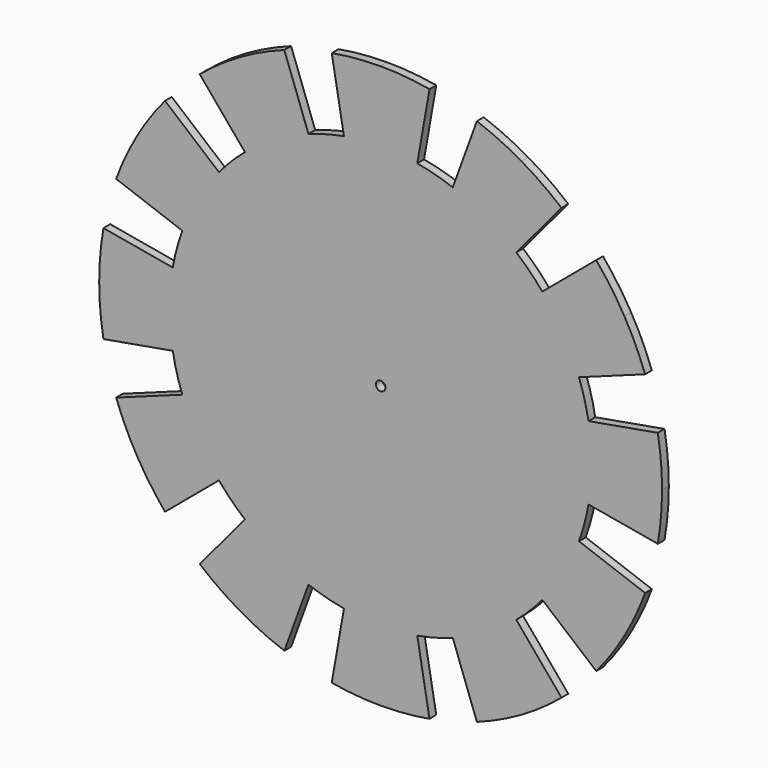
from build123d import *

# Parameters (mm, degrees)
F1_DEPTH = 3
F2_R     = 1.7
F3_DEPTH = 3.001


with BuildPart() as f1:
    # F0 (on Front) → F1 (new body)
    with BuildSketch(Plane.XZ):
        with BuildLine():
            Line((0, 0), (75, 0))
            ThreePointArc((75, 0), (74.7146023569, 6.5366807061), (73.8605814759, 13.023613325))
            Line((73.8605814759, 13.023613325), (0, 0))
        make_face()
        with BuildLine():
            Line((100, 0), (75, 0))
            ThreePointArc((75, 0), (74.7146023569, -6.5366807061), (73.8605814759, -13.023613325))
            Line((73.8605814759, -13.023613325), (98.4807753012, -17.3648177667))
            ThreePointArc((98.4807753012, -17.3648177667), (99.6194698092, -8.7155742748), (100, 0))
        make_face()
        with BuildLine():
            ThreePointArc((73.8605814759, -13.023613325), (74.7146023569, -6.5366807061), (75, 0))
            Line((75, 0), (0, 0))
            Line((0, 0), (73.8605814759, -13.023613325))
        make_face()
        with BuildLine():
            ThreePointArc((73.8605814759, 13.023613325), (74.7146023569, 6.5366807061), (75, 0))
            Line((75, 0), (100, 0))
            ThreePointArc((100, 0), (99.6194698092, 8.7155742748), (98.4807753012, 17.3648177667))
            Line((98.4807753012, 17.3648177667), (73.8605814759, 13.023613325))
        make_face()
        with BuildLine():
            Line((0, 0), (73.8605814759, 13.023613325))
            ThreePointArc((73.8605814759, 13.023613325), (72.4444369717, 19.4114283827), (70.4769465589, 25.6515107494))
            Line((70.4769465589, 25.6515107494), (0, 0))
        make_face()
        with BuildLine():
            ThreePointArc((70.4769465589, -25.6515107494), (72.4444369717, -19.4114283827), (73.8605814759, -13.023613325))
            Line((73.8605814759, -13.023613325), (0, 0))
            Line((0, 0), (70.4769465589, -25.6515107494))
        make_face()
        with BuildLine():
            Line((-13.023613325, 73.8605814759), (0, 0))
            Line((0, 0), (0, 75))
            ThreePointArc((0, 75), (-6.5366807061, 74.7146023569), (-13.023613325, 73.8605814759))
        make_face()
        with BuildLine():
            Line((13.023613325, -73.8605814759), (0, 0))
            Line((0, 0), (0, -75))
            ThreePointArc((0, -75), (6.5366807061, -74.7146023569), (13.023613325, -73.8605814759))
        make_face()
        with BuildLine():
            Line((-73.8605814759, -13.023613325), (0, 0))
            Line((0, 0), (-75, 0))
            ThreePointArc((-75, 0), (-74.7146023569, -6.5366807061), (-73.8605814759, -13.023613325))
        make_face()
        with BuildLine():
            Line((25.6515107494, 70.4769465589), (0, 0))
            Line((0, 0), (37.5, 64.9519052838))
            ThreePointArc((37.5, 64.9519052838), (31.6963696306, 67.9730840277), (25.6515107494, 70.4769465589))
        make_face()
        with BuildLine():
            Line((57.4533332339, 48.2090707265), (0, 0))
            Line((0, 0), (64.9519052838, 37.5))
            ThreePointArc((64.9519052838, 37.5), (61.4364033217, 43.0182327263), (57.4533332339, 48.2090707265))
        make_face()
        with BuildLine():
            Line((70.4769465589, -25.6515107494), (0, 0))
            Line((0, 0), (64.9519052838, -37.5))
            ThreePointArc((64.9519052838, -37.5), (67.9730840277, -31.6963696306), (70.4769465589, -25.6515107494))
        make_face()
        with BuildLine():
            Line((48.2090707265, -57.4533332339), (0, 0))
            Line((0, 0), (37.5, -64.9519052838))
            ThreePointArc((37.5, -64.9519052838), (43.0182327263, -61.4364033217), (48.2090707265, -57.4533332339))
        make_face()
        with BuildLine():
            Line((-48.2090707265, 57.4533332339), (0, 0))
            Line((0, 0), (-37.5, 64.9519052838))
            ThreePointArc((-37.5, 64.9519052838), (-43.0182327263, 61.4364033217), (-48.2090707265, 57.4533332339))
        make_face()
        with BuildLine():
            Line((-70.4769465589, 25.6515107494), (0, 0))
            Line((0, 0), (-64.9519052838, 37.5))
            ThreePointArc((-64.9519052838, 37.5), (-67.9730840277, 31.6963696306), (-70.4769465589, 25.6515107494))
        make_face()
        with BuildLine():
            Line((-57.4533332339, -48.2090707265), (0, 0))
            Line((0, 0), (-64.9519052838, -37.5))
            ThreePointArc((-64.9519052838, -37.5), (-61.4364033217, -43.0182327263), (-57.4533332339, -48.2090707265))
        make_face()
        with BuildLine():
            Line((-25.6515107494, -70.4769465589), (0, 0))
            Line((0, 0), (-37.5, -64.9519052838))
            ThreePointArc((-37.5, -64.9519052838), (-31.6963696306, -67.9730840277), (-25.6515107494, -70.4769465589))
        make_face()
        with BuildLine():
            Line((-25.6515107494, 70.4769465589), (0, 0))
            Line((0, 0), (-13.023613325, 73.8605814759))
            ThreePointArc((-13.023613325, 73.8605814759), (-19.4114283827, 72.4444369717), (-25.6515107494, 70.4769465589))
        make_face()
        with BuildLine():
            Line((0, 75), (0, 0))
            Line((0, 0), (13.023613325, 73.8605814759))
            ThreePointArc((13.023613325, 73.8605814759), (6.5366807061, 74.7146023569), (0, 75))
        make_face()
        with BuildLine():
            Line((13.023613325, 73.8605814759), (0, 0))
            Line((0, 0), (25.6515107494, 70.4769465589))
            ThreePointArc((25.6515107494, 70.4769465589), (19.4114283827, 72.4444369717), (13.023613325, 73.8605814759))
        make_face()
        with BuildLine():
            Line((37.5, 64.9519052838), (0, 0))
            Line((0, 0), (48.2090707265, 57.4533332339))
            ThreePointArc((48.2090707265, 57.4533332339), (43.0182327263, 61.4364033217), (37.5, 64.9519052838))
        make_face()
        with BuildLine():
            Line((48.2090707265, 57.4533332339), (0, 0))
            Line((0, 0), (57.4533332339, 48.2090707265))
            ThreePointArc((57.4533332339, 48.2090707265), (53.033008589, 53.033008589), (48.2090707265, 57.4533332339))
        make_face()
        with BuildLine():
            Line((64.9519052838, 37.5), (0, 0))
            Line((0, 0), (70.4769465589, 25.6515107494))
            ThreePointArc((70.4769465589, 25.6515107494), (67.9730840277, 31.6963696306), (64.9519052838, 37.5))
        make_face()
        with BuildLine():
            Line((64.9519052838, -37.5), (0, 0))
            Line((0, 0), (57.4533332339, -48.2090707265))
            ThreePointArc((57.4533332339, -48.2090707265), (61.4364033217, -43.0182327263), (64.9519052838, -37.5))
        make_face()
        with BuildLine():
            Line((57.4533332339, -48.2090707265), (0, 0))
            Line((0, 0), (48.2090707265, -57.4533332339))
            ThreePointArc((48.2090707265, -57.4533332339), (53.033008589, -53.033008589), (57.4533332339, -48.2090707265))
        make_face()
        with BuildLine():
            Line((37.5, -64.9519052838), (0, 0))
            Line((0, 0), (25.6515107494, -70.4769465589))
            ThreePointArc((25.6515107494, -70.4769465589), (31.6963696306, -67.9730840277), (37.5, -64.9519052838))
        make_face()
        with BuildLine():
            Line((25.6515107494, -70.4769465589), (0, 0))
            Line((0, 0), (13.023613325, -73.8605814759))
            ThreePointArc((13.023613325, -73.8605814759), (19.4114283827, -72.4444369717), (25.6515107494, -70.4769465589))
        make_face()
        with BuildLine():
            Line((0, -75), (0, 0))
            Line((0, 0), (-13.023613325, -73.8605814759))
            ThreePointArc((-13.023613325, -73.8605814759), (-6.5366807061, -74.7146023569), (0, -75))
        make_face()
        with BuildLine():
            Line((-13.023613325, -73.8605814759), (0, 0))
            Line((0, 0), (-25.6515107494, -70.4769465589))
            ThreePointArc((-25.6515107494, -70.4769465589), (-19.4114283827, -72.4444369717), (-13.023613325, -73.8605814759))
        make_face()
        with BuildLine():
            Line((-37.5, -64.9519052838), (0, 0))
            Line((0, 0), (-48.2090707265, -57.4533332339))
            ThreePointArc((-48.2090707265, -57.4533332339), (-43.0182327263, -61.4364033217), (-37.5, -64.9519052838))
        make_face()
        with BuildLine():
            Line((-48.2090707265, -57.4533332339), (0, 0))
            Line((0, 0), (-57.4533332339, -48.2090707265))
            ThreePointArc((-57.4533332339, -48.2090707265), (-53.033008589, -53.033008589), (-48.2090707265, -57.4533332339))
        make_face()
        with BuildLine():
            Line((-64.9519052838, -37.5), (0, 0))
            Line((0, 0), (-70.4769465589, -25.6515107494))
            ThreePointArc((-70.4769465589, -25.6515107494), (-67.9730840277, -31.6963696306), (-64.9519052838, -37.5))
        make_face()
        with BuildLine():
            Line((-70.4769465589, -25.6515107494), (0, 0))
            Line((0, 0), (-73.8605814759, -13.023613325))
            ThreePointArc((-73.8605814759, -13.023613325), (-72.4444369717, -19.4114283827), (-70.4769465589, -25.6515107494))
        make_face()
        with BuildLine():
            Line((-73.8605814759, 13.023613325), (0, 0))
            Line((0, 0), (-70.4769465589, 25.6515107494))
            ThreePointArc((-70.4769465589, 25.6515107494), (-72.4444369717, 19.4114283827), (-73.8605814759, 13.023613325))
        make_face()
        with BuildLine():
            Line((-64.9519052838, 37.5), (0, 0))
            Line((0, 0), (-57.4533332339, 48.2090707265))
            ThreePointArc((-57.4533332339, 48.2090707265), (-61.4364033217, 43.0182327263), (-64.9519052838, 37.5))
        make_face()
        with BuildLine():
            Line((-57.4533332339, 48.2090707265), (0, 0))
            Line((0, 0), (-48.2090707265, 57.4533332339))
            ThreePointArc((-48.2090707265, 57.4533332339), (-53.033008589, 53.033008589), (-57.4533332339, 48.2090707265))
        make_face()
        with BuildLine():
            Line((-37.5, 64.9519052838), (0, 0))
            Line((0, 0), (-25.6515107494, 70.4769465589))
            ThreePointArc((-25.6515107494, 70.4769465589), (-31.6963696306, 67.9730840277), (-37.5, 64.9519052838))
        make_face()
        with BuildLine():
            Line((-75, 0), (0, 0))
            Line((0, 0), (-73.8605814759, 13.023613325))
            ThreePointArc((-73.8605814759, 13.023613325), (-74.7146023569, 6.5366807061), (-75, 0))
        make_face()
        with BuildLine():
            ThreePointArc((64.9519052838, 37.5), (67.9730840277, 31.6963696306), (70.4769465589, 25.6515107494))
            Line((70.4769465589, 25.6515107494), (93.9692620786, 34.2020143326))
            ThreePointArc((93.9692620786, 34.2020143326), (90.6307787037, 42.2618261741), (86.6025403784, 50))
            Line((86.6025403784, 50), (64.9519052838, 37.5))
        make_face()
        with BuildLine():
            Line((93.9692620786, -34.2020143326), (70.4769465589, -25.6515107494))
            ThreePointArc((70.4769465589, -25.6515107494), (67.9730840277, -31.6963696306), (64.9519052838, -37.5))
            Line((64.9519052838, -37.5), (86.6025403784, -50))
            ThreePointArc((86.6025403784, -50), (90.6307787037, -42.2618261741), (93.9692620786, -34.2020143326))
        make_face()
        with BuildLine():
            Line((0, 100), (0, 75))
            ThreePointArc((0, 75), (6.5366807061, 74.7146023569), (13.023613325, 73.8605814759))
            Line((13.023613325, 73.8605814759), (17.3648177667, 98.4807753012))
            ThreePointArc((17.3648177667, 98.4807753012), (8.7155742748, 99.6194698092), (0, 100))
        make_face()
        with BuildLine():
            ThreePointArc((-13.023613325, 73.8605814759), (-6.5366807061, 74.7146023569), (0, 75))
            Line((0, 75), (0, 100))
            ThreePointArc((0, 100), (-8.7155742748, 99.6194698092), (-17.3648177667, 98.4807753012))
            Line((-17.3648177667, 98.4807753012), (-13.023613325, 73.8605814759))
        make_face()
        with BuildLine():
            Line((0, -100), (0, -75))
            ThreePointArc((0, -75), (-6.5366807061, -74.7146023569), (-13.023613325, -73.8605814759))
            Line((-13.023613325, -73.8605814759), (-17.3648177667, -98.4807753012))
            ThreePointArc((-17.3648177667, -98.4807753012), (-8.7155742748, -99.6194698092), (0, -100))
        make_face()
        with BuildLine():
            ThreePointArc((13.023613325, -73.8605814759), (6.5366807061, -74.7146023569), (0, -75))
            Line((0, -75), (0, -100))
            ThreePointArc((0, -100), (8.7155742748, -99.6194698092), (17.3648177667, -98.4807753012))
            Line((17.3648177667, -98.4807753012), (13.023613325, -73.8605814759))
        make_face()
        with BuildLine():
            Line((-100, 0), (-75, 0))
            ThreePointArc((-75, 0), (-74.7146023569, 6.5366807061), (-73.8605814759, 13.023613325))
            Line((-73.8605814759, 13.023613325), (-98.4807753012, 17.3648177667))
            ThreePointArc((-98.4807753012, 17.3648177667), (-99.6194698092, 8.7155742748), (-100, 0))
        make_face()
        with BuildLine():
            ThreePointArc((-73.8605814759, -13.023613325), (-74.7146023569, -6.5366807061), (-75, 0))
            Line((-75, 0), (-100, 0))
            ThreePointArc((-100, 0), (-99.6194698092, -8.7155742748), (-98.4807753012, -17.3648177667))
            Line((-98.4807753012, -17.3648177667), (-73.8605814759, -13.023613325))
        make_face()
        with BuildLine():
            Line((50, 86.6025403784), (37.5, 64.9519052838))
            ThreePointArc((37.5, 64.9519052838), (43.0182327263, 61.4364033217), (48.2090707265, 57.4533332339))
            Line((48.2090707265, 57.4533332339), (64.2787609687, 76.6044443119))
            ThreePointArc((64.2787609687, 76.6044443119), (57.3576436351, 81.9152044289), (50, 86.6025403784))
        make_face()
        with BuildLine():
            ThreePointArc((25.6515107494, 70.4769465589), (31.6963696306, 67.9730840277), (37.5, 64.9519052838))
            Line((37.5, 64.9519052838), (50, 86.6025403784))
            ThreePointArc((50, 86.6025403784), (42.2618261741, 90.6307787037), (34.2020143326, 93.9692620786))
            Line((34.2020143326, 93.9692620786), (25.6515107494, 70.4769465589))
        make_face()
        with BuildLine():
            ThreePointArc((57.4533332339, 48.2090707265), (61.4364033217, 43.0182327263), (64.9519052838, 37.5))
            Line((64.9519052838, 37.5), (86.6025403784, 50))
            ThreePointArc((86.6025403784, 50), (81.9152044289, 57.3576436351), (76.6044443119, 64.2787609687))
            Line((76.6044443119, 64.2787609687), (57.4533332339, 48.2090707265))
        make_face()
        with BuildLine():
            Line((86.6025403784, -50), (64.9519052838, -37.5))
            ThreePointArc((64.9519052838, -37.5), (61.4364033217, -43.0182327263), (57.4533332339, -48.2090707265))
            Line((57.4533332339, -48.2090707265), (76.6044443119, -64.2787609687))
            ThreePointArc((76.6044443119, -64.2787609687), (81.9152044289, -57.3576436351), (86.6025403784, -50))
        make_face()
        with BuildLine():
            Line((50, -86.6025403784), (37.5, -64.9519052838))
            ThreePointArc((37.5, -64.9519052838), (31.6963696306, -67.9730840277), (25.6515107494, -70.4769465589))
            Line((25.6515107494, -70.4769465589), (34.2020143326, -93.9692620786))
            ThreePointArc((34.2020143326, -93.9692620786), (42.2618261741, -90.6307787037), (50, -86.6025403784))
        make_face()
        with BuildLine():
            ThreePointArc((48.2090707265, -57.4533332339), (43.0182327263, -61.4364033217), (37.5, -64.9519052838))
            Line((37.5, -64.9519052838), (50, -86.6025403784))
            ThreePointArc((50, -86.6025403784), (57.3576436351, -81.9152044289), (64.2787609687, -76.6044443119))
            Line((64.2787609687, -76.6044443119), (48.2090707265, -57.4533332339))
        make_face()
        with BuildLine():
            Line((-50, 86.6025403784), (-37.5, 64.9519052838))
            ThreePointArc((-37.5, 64.9519052838), (-31.6963696306, 67.9730840277), (-25.6515107494, 70.4769465589))
            Line((-25.6515107494, 70.4769465589), (-34.2020143326, 93.9692620786))
            ThreePointArc((-34.2020143326, 93.9692620786), (-42.2618261741, 90.6307787037), (-50, 86.6025403784))
        make_face()
        with BuildLine():
            ThreePointArc((-48.2090707265, 57.4533332339), (-43.0182327263, 61.4364033217), (-37.5, 64.9519052838))
            Line((-37.5, 64.9519052838), (-50, 86.6025403784))
            ThreePointArc((-50, 86.6025403784), (-57.3576436351, 81.9152044289), (-64.2787609687, 76.6044443119))
            Line((-64.2787609687, 76.6044443119), (-48.2090707265, 57.4533332339))
        make_face()
        with BuildLine():
            Line((-86.6025403784, 50), (-64.9519052838, 37.5))
            ThreePointArc((-64.9519052838, 37.5), (-61.4364033217, 43.0182327263), (-57.4533332339, 48.2090707265))
            Line((-57.4533332339, 48.2090707265), (-76.6044443119, 64.2787609687))
            ThreePointArc((-76.6044443119, 64.2787609687), (-81.9152044289, 57.3576436351), (-86.6025403784, 50))
        make_face()
        with BuildLine():
            ThreePointArc((-70.4769465589, 25.6515107494), (-67.9730840277, 31.6963696306), (-64.9519052838, 37.5))
            Line((-64.9519052838, 37.5), (-86.6025403784, 50))
            ThreePointArc((-86.6025403784, 50), (-90.6307787037, 42.2618261741), (-93.9692620786, 34.2020143326))
            Line((-93.9692620786, 34.2020143326), (-70.4769465589, 25.6515107494))
        make_face()
        with BuildLine():
            Line((-86.6025403784, -50), (-64.9519052838, -37.5))
            ThreePointArc((-64.9519052838, -37.5), (-67.9730840277, -31.6963696306), (-70.4769465589, -25.6515107494))
            Line((-70.4769465589, -25.6515107494), (-93.9692620786, -34.2020143326))
            ThreePointArc((-93.9692620786, -34.2020143326), (-90.6307787037, -42.2618261741), (-86.6025403784, -50))
        make_face()
        with BuildLine():
            ThreePointArc((-57.4533332339, -48.2090707265), (-61.4364033217, -43.0182327263), (-64.9519052838, -37.5))
            Line((-64.9519052838, -37.5), (-86.6025403784, -50))
            ThreePointArc((-86.6025403784, -50), (-81.9152044289, -57.3576436351), (-76.6044443119, -64.2787609687))
            Line((-76.6044443119, -64.2787609687), (-57.4533332339, -48.2090707265))
        make_face()
        with BuildLine():
            Line((-50, -86.6025403784), (-37.5, -64.9519052838))
            ThreePointArc((-37.5, -64.9519052838), (-43.0182327263, -61.4364033217), (-48.2090707265, -57.4533332339))
            Line((-48.2090707265, -57.4533332339), (-64.2787609687, -76.6044443119))
            ThreePointArc((-64.2787609687, -76.6044443119), (-57.3576436351, -81.9152044289), (-50, -86.6025403784))
        make_face()
        with BuildLine():
            ThreePointArc((-25.6515107494, -70.4769465589), (-31.6963696306, -67.9730840277), (-37.5, -64.9519052838))
            Line((-37.5, -64.9519052838), (-50, -86.6025403784))
            ThreePointArc((-50, -86.6025403784), (-42.2618261741, -90.6307787037), (-34.2020143326, -93.9692620786))
            Line((-34.2020143326, -93.9692620786), (-25.6515107494, -70.4769465589))
        make_face()
    extrude(amount=F1_DEPTH)

    # F2 (on face) → F3 (cut, through all)
    with BuildSketch(Plane.XZ.offset(3)):
        Circle(F2_R)
    extrude(amount=-F3_DEPTH, mode=Mode.SUBTRACT)


solid = f1.part
